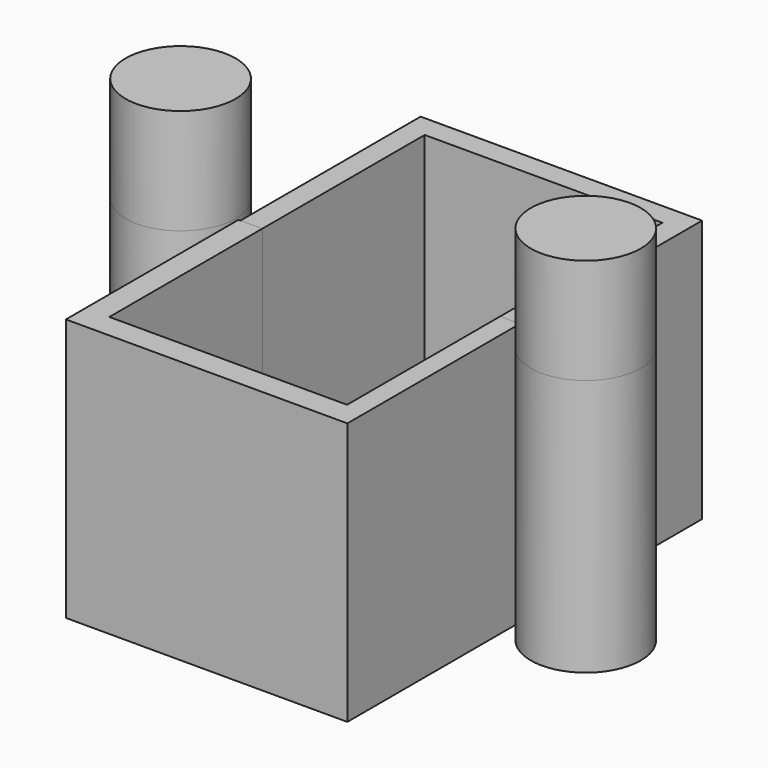
from build123d import *

# Parameters (mm, degrees)
F1_R     = 14.821392
F2_DEPTH = 69.342
F0_W     = 75.895201
F0_H     = 70.866004
F3_DEPTH = 58.166
F4_W     = 75.8952
F4_H     = 70.866
F5_DEPTH = 60.706
F6_W     = 64.100887
F6_H     = 106.28945
F7_DEPTH = 67.056
F8_DEPTH = 28.448


with BuildPart() as f2:
    # F1 (on Top) → F2 (new body)
    with BuildSketch(Plane.XY):
        with Locations((-54.630253, 0)):
            Circle(F1_R)
        with Locations((54.630253, 0)):
            Circle(F1_R)
    extrude(amount=-F2_DEPTH)

    # F1 (on Top) → F8 (join)
    with BuildSketch(Plane.XY):
        with Locations((-54.630253, 0)):
            Circle(F1_R)
        with Locations((54.630253, 0)):
            Circle(F1_R)
    extrude(amount=F8_DEPTH)


with BuildPart() as f3:
    # F0 (on Front) → F3 (new body)
    with BuildSketch(Plane.XZ):
        with Locations((-1.066799, -35.433002)):
            Rectangle(F0_W, F0_H)
    extrude(amount=F3_DEPTH)


with BuildPart() as f5:
    # F4 (on Front) → F5 (new body)
    with BuildSketch(Plane.XZ):
        with Locations((-0.518296, -35.433)):
            Rectangle(F4_W, F4_H)
    extrude(amount=-F5_DEPTH)


with BuildPart() as f7_tool:
    # F6 (on Top) → F7 (new body)
    with BuildSketch(Plane.XY):
        with Locations((-0.522559, 1.563625)):
            Rectangle(F6_W, F6_H)
    extrude(amount=-F7_DEPTH)


with BuildPart() as f3_1:
    add(f3.part)

    # F7: cut by f7_tool
    add(f7_tool.part, mode=Mode.SUBTRACT)


with BuildPart() as f5_1:
    add(f5.part)

    # F7: cut by f7_tool
    add(f7_tool.part, mode=Mode.SUBTRACT)


solid = Compound([f2.part, f3_1.part, f5_1.part])
